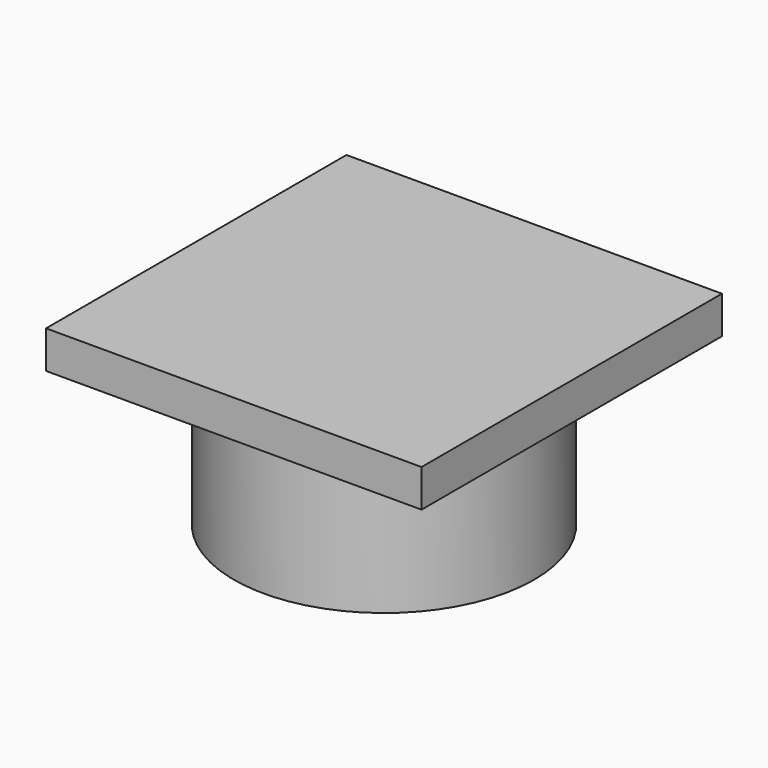
from build123d import *

# Parameters (mm, degrees)
F0_R     = 20
F1_DEPTH = 20
F2_W     = 3.1
F2_H     = 7.1
F2_W_2   = 7.1
F2_H_2   = 3.1
F3_DEPTH = 15
F4_W     = 50
F4_H     = 50
F5_DEPTH = 5


with BuildPart() as f1:
    # F0 (on Top) → F1 (new body)
    with BuildSketch(Plane.XY):
        Circle(F0_R)
    extrude(amount=F1_DEPTH)

    # F2 (on face) → F3 (cut)
    with BuildSketch(Plane(origin=(0, 0, 0), x_dir=(1, 0, 0), z_dir=(0, 0, -1))):
        with Locations((0, -10.55)):
            Rectangle(F2_W, F2_H)
        with Locations((8.55, 6.55)):
            Rectangle(F2_W_2, F2_H_2)
        with Locations((-8.55, 6.55)):
            Rectangle(F2_W_2, F2_H_2)
    extrude(amount=-F3_DEPTH, mode=Mode.SUBTRACT)

    # F4 (on face) → F5 (join)
    with BuildSketch(Plane.XY.offset(20)):
        Rectangle(F4_W, F4_H)
    extrude(amount=F5_DEPTH)


solid = f1.part
